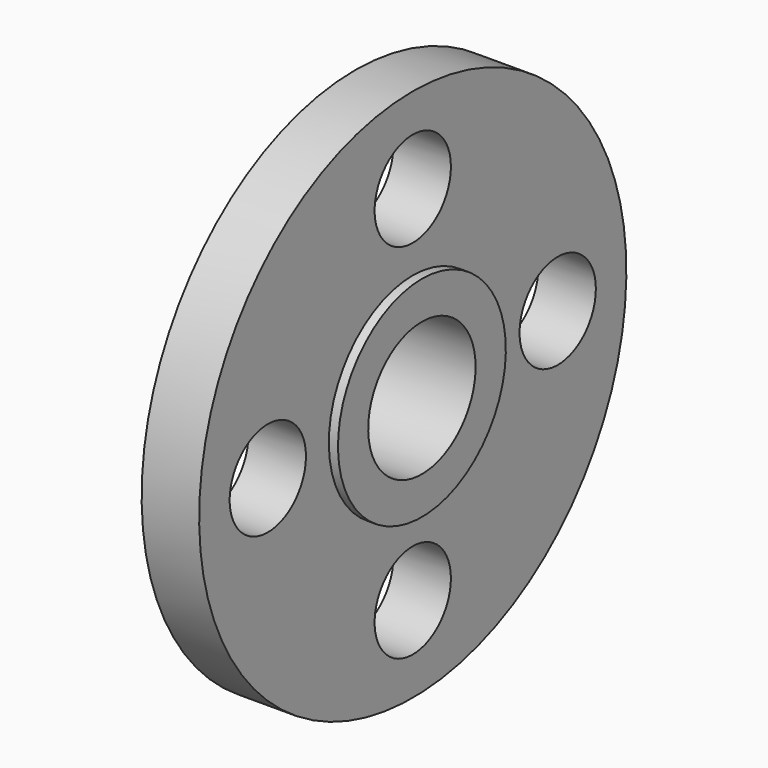
from build123d import *

# Parameters (mm, degrees)
F2_R     = 7.9375
F3_DEPTH = 15.876


with BuildPart() as f1:
    # F0 (on Front) → F1 (revolve)
    with BuildSketch(Plane.XZ):
        Polygon((0, 15.0876), (0, 11.176), (15.875, 11.176), (15.875, 17.4625), (14.351, 17.4625), (14.351, 44.45), (4.7752, 44.45), (4.7752, 15.0876), align=None)
    revolve(axis=Axis((6.739925, 0, 0), (1, 0, 0)))

    # F2 (on Right) → F3 (cut, through all)
    with BuildSketch(Plane.YZ):
        with Locations((0, 30.1625)):
            Circle(F2_R)
        with Locations((-30.1625, 0)):
            Circle(F2_R)
        with Locations((0, -30.1625)):
            Circle(F2_R)
        with Locations((30.1625, 0)):
            Circle(F2_R)
    extrude(amount=F3_DEPTH, mode=Mode.SUBTRACT)


solid = f1.part
